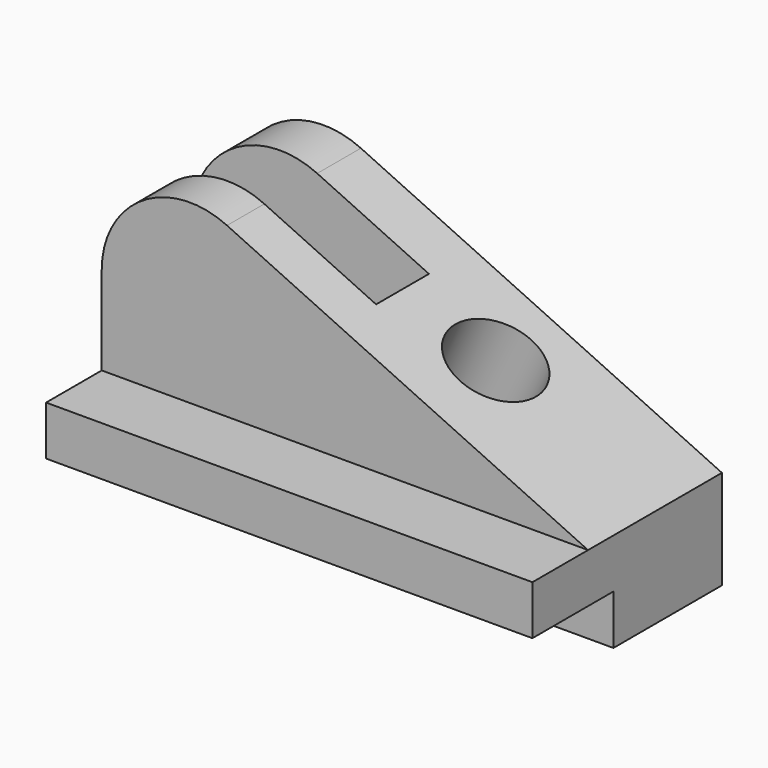
from build123d import *

# Parameters (mm, degrees)
F1_DEPTH = 68.326
F2_W     = 87.6199703779
F2_H     = 65.060084963
F2_W_2   = 70.4743001366
F2_H_2   = 87.6017467856
F3_DEPTH = 140.2725
F9_DEPTH = 19.05


with BuildPart() as f1:
    # F0 (on Front) → F1 (new body)
    with BuildSketch(Plane.XZ):
        with BuildLine():
            Line((-140.2715, 0), (0, 0))
            Line((0, 0), (0, 28.575))
            Line((0, 28.575), (-104.1369961518, 77.1348788028))
            ThreePointArc((-104.1369961518, 77.1348788028), (-128.518910052, 75.5368037358), (-140.2715, 54.1146610121))
            Line((-140.2715, 54.1146610121), (-140.2715, 0))
        make_face()
    extrude(amount=F1_DEPTH)

    # F2 (on Right) → F3 (cut, through all)
    with BuildSketch(Plane.YZ):
        with Locations((-82.925985189, -18.1790424815)):
            Rectangle(F2_W, F2_H)
        with Locations((-83.4971500683, 72.3758733928)):
            Rectangle(F2_W_2, F2_H_2)
    extrude(amount=-F3_DEPTH, mode=Mode.SUBTRACT)

    # F5 (on offset) → F6 (revolve, cut)
    with BuildSketch(Plane(origin=(0, -22.225, 0), x_dir=(-1, 0, 0), z_dir=(0, 1, 0))):
        Polygon((71.1155433788, 30.3478274527), (50.8693131181, 73.7660083611), (39.2441031338, 68.3450839177), (62.7475534112, 17.9417721419), align=None)
    revolve(axis=Axis((-50.9958282725, -22.225, 43.1434280298), (-0.4226182617, 0, -0.906307787)), mode=Mode.SUBTRACT)

    # F8 (on offset) → F9 (cut)
    with BuildSketch(Plane(origin=(0, -15.748, 0), x_dir=(-1, 0, 0), z_dir=(0, 1, 0))):
        Polygon((164.5451933146, 38.0492), (164.5451933146, 123.7454637885), (43.1606759201, 123.7454637885), (83.1215, 38.0492), align=None)
    extrude(amount=-F9_DEPTH, mode=Mode.SUBTRACT)


solid = f1.part
